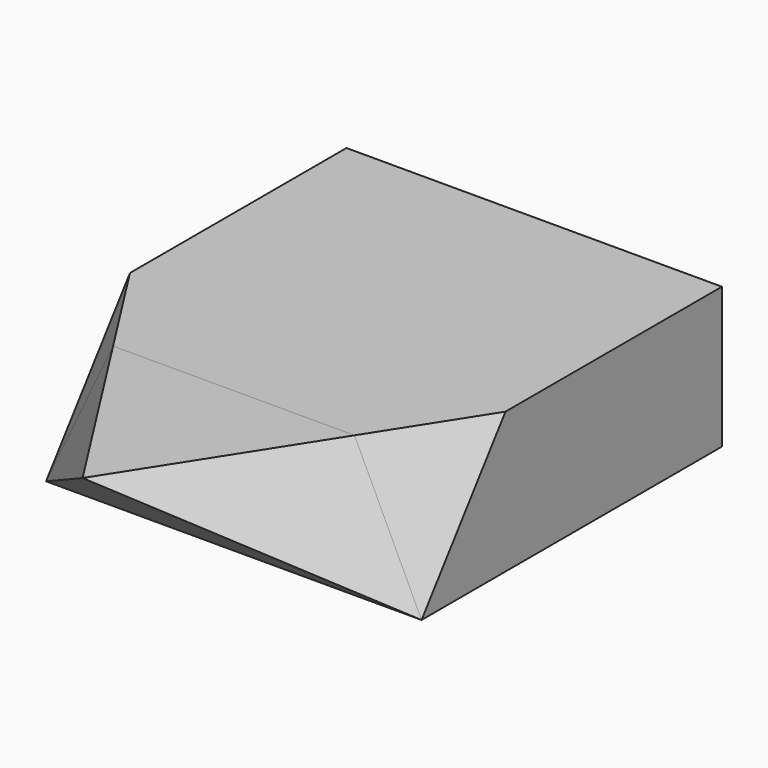
from build123d import *

# Parameters (mm, degrees)
F0_W     = 25.4
F0_H     = 9.525
F1_DEPTH = 25.4
F3_DEPTH = 25.4
F5_DEPTH = 33.9526981115


with BuildPart() as f1:
    # F0 (on Front) → F1 (new body)
    with BuildSketch(Plane.XZ):
        Rectangle(F0_W, F0_H)
    extrude(amount=-F1_DEPTH)


with BuildPart() as f3:
    # F2 (on face) → F3 (new body)
    with BuildSketch(Plane.YZ.offset(12.7)):
        Polygon((0, -4.7625), (0, 4.7625), (-12.7879343927, 4.7625), align=None)
    extrude(amount=-F3_DEPTH)


with BuildPart() as f5_tool:
    # F4 (on face) → F5 (new body)
    with BuildSketch(Plane(origin=(0, -2.2815376518, -3.0631132604), x_dir=(1, 0, 0), z_dir=(0, -0.5973496564, -0.801980915))):
        Polygon((-12.7, -2.8448777385), (0, 13.1005570637), (-12.7, 13.1005570637), align=None)
        Polygon((0, 13.1005570637), (12.7, -2.8448777385), (12.7, 13.1005570637), align=None)
    extrude(amount=-F5_DEPTH)


with BuildPart() as f1_1:
    add(f1.part)

    # F5: cut by f5_tool
    add(f5_tool.part, mode=Mode.SUBTRACT)


with BuildPart() as f3_1:
    add(f3.part)

    # F5: cut by f5_tool
    add(f5_tool.part, mode=Mode.SUBTRACT)


solid = Compound([f1_1.part, f3_1.part])
